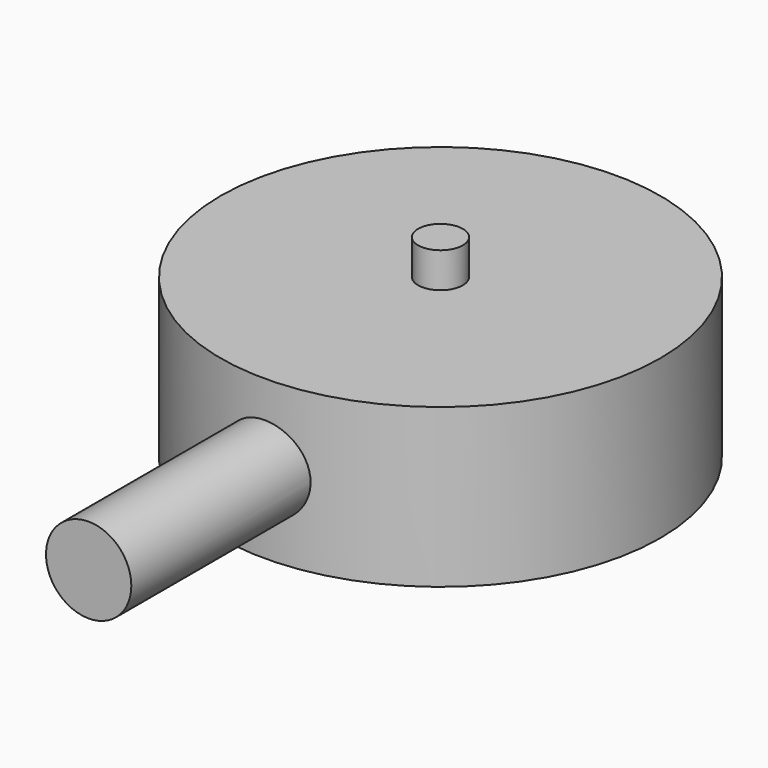
from build123d import *

# Parameters (mm, degrees)
F0_R     = 12.5
F0_R_2   = 1.25
F0_R_3   = 8
F0_R_4   = 1.27
F1_DEPTH = 9
F2_DEPTH = 11
F3_DEPTH = 0.5
F4_DEPTH = 5
F5_R     = 2.425
F6_DEPTH = 25


with BuildPart() as f1:
    # F0 (on Top) → F1 (new body)
    with BuildSketch(Plane.XY):
        Circle(F0_R)
        with Locations((-8.87676, -5.125)):
            Circle(F0_R_2, mode=Mode.SUBTRACT)
        with Locations((8.87676, -5.125)):
            Circle(F0_R_2, mode=Mode.SUBTRACT)
        Circle(F0_R_3, mode=Mode.SUBTRACT)
        with Locations((0, 10.25)):
            Circle(F0_R_2, mode=Mode.SUBTRACT)
        Circle(F0_R_3)
        Circle(F0_R_4, mode=Mode.SUBTRACT)
        with Locations((-8.87676, -5.125)):
            Circle(F0_R_2)
        with Locations((8.87676, -5.125)):
            Circle(F0_R_2)
        Circle(F0_R_4)
        with Locations((0, 10.25)):
            Circle(F0_R_2)
    extrude(amount=F1_DEPTH)

    # F0 (on Top) → F2 (join)
    with BuildSketch(Plane.XY):
        Circle(F0_R_4)
    extrude(amount=F2_DEPTH)

    # F0 (on Top) → F3 (cut)
    with BuildSketch(Plane.XY):
        Circle(F0_R_3)
        Circle(F0_R_4, mode=Mode.SUBTRACT)
        Circle(F0_R_4)
    extrude(amount=F3_DEPTH, mode=Mode.SUBTRACT)

    # F0 (on Top) → F4 (cut)
    with BuildSketch(Plane.XY):
        with Locations((-8.87676, -5.125)):
            Circle(F0_R_2)
        with Locations((8.87676, -5.125)):
            Circle(F0_R_2)
        with Locations((0, 10.25)):
            Circle(F0_R_2)
    extrude(amount=F4_DEPTH, mode=Mode.SUBTRACT)

    # F5 (on Front) → F6 (join)
    with BuildSketch(Plane.XZ):
        with Locations((0, 4.5)):
            Circle(F5_R)
    extrude(amount=F6_DEPTH)


solid = f1.part
